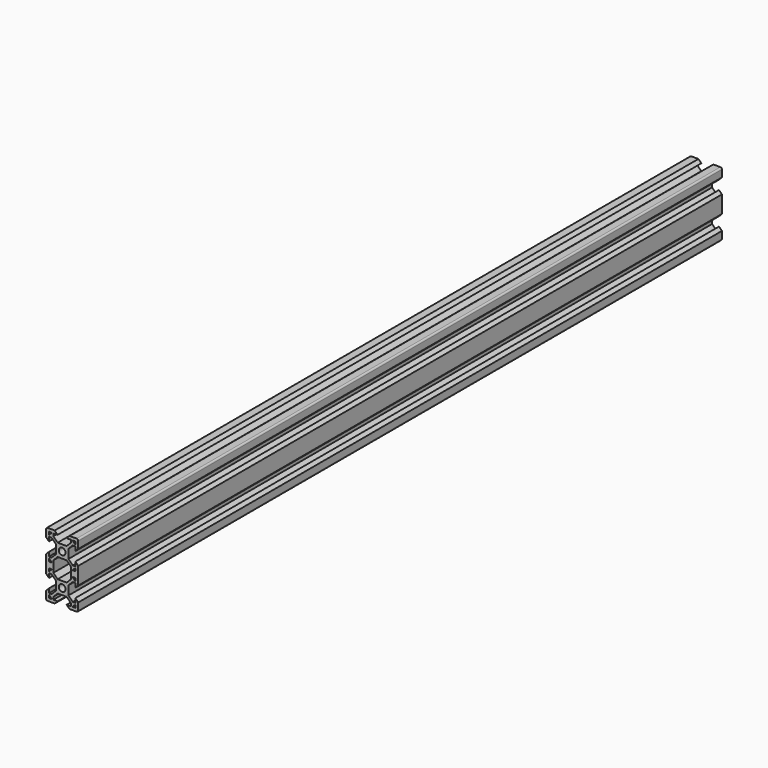
from build123d import *

# Parameters (mm, degrees)
F0_R     = 2.0955
F2_DEPTH = 500


with BuildPart() as f2:
    # F0 (on Front) → F2 (new body)
    with BuildSketch(Plane.XZ):
        with BuildLine():
            ThreePointArc((-9.9949, -9.0043), (-9.7047599774, -9.7047599774), (-9.0043, -9.9949))
            Line((-9.0043, -9.9949), (-4.6246692655, -9.9949))
            Line((-4.6246692655, -9.9949), (-2.8212692655, -8.1915))
            Line((-2.8212692655, -8.1915), (-5.4628692655, -8.1915))
            Line((-5.4628692655, -8.1915), (-5.4628692655, -6.5405))
            Line((-5.4628692655, -6.5405), (-2.8212692655, -3.8989))
            Line((-2.8212692655, -3.8989), (2.8212692655, -3.8989))
            Line((2.8212692655, -3.8989), (5.4628692655, -6.5405))
            Line((5.4628692655, -6.5405), (5.4628692655, -8.1915))
            Line((5.4628692655, -8.1915), (2.8212692655, -8.1915))
            Line((2.8212692655, -8.1915), (4.6246692655, -9.9949))
            Line((4.6246692655, -9.9949), (9.0043, -9.9949))
            ThreePointArc((9.0043, -9.9949), (9.7047599774, -9.7047599774), (9.9949, -9.0043))
            Line((9.9949, -9.0043), (9.9949, -4.6246692655))
            Line((9.9949, -4.6246692655), (8.1915, -2.8212692655))
            Line((8.1915, -2.8212692655), (8.1915, -5.4628692655))
            Line((8.1915, -5.4628692655), (6.5405, -5.4628692655))
            Line((6.5405, -5.4628692655), (3.8989, -2.8212692655))
            Line((3.8989, -2.8212692655), (3.8989, 2.8212692655))
            Line((3.8989, 2.8212692655), (6.5405, 5.4628692655))
            Line((6.5405, 5.4628692655), (8.1915, 5.4628692655))
            Line((8.1915, 5.4628692655), (8.1915, 2.8212692655))
            Line((8.1915, 2.8212692655), (9.9949, 4.6246692655))
            Line((9.9949, 4.6246692655), (9.9949, 9.0043))
            Line((9.9949, 9.0043), (9.9949, 10.9855))
            Line((9.9949, 10.9855), (9.9949, 15.3651307345))
            Line((9.9949, 15.3651307345), (8.1915, 17.1685307345))
            Line((8.1915, 17.1685307345), (8.1915, 14.5269307345))
            Line((8.1915, 14.5269307345), (6.5405, 14.5269307345))
            Line((6.5405, 14.5269307345), (3.8989, 17.1685307345))
            Line((3.8989, 17.1685307345), (3.8989, 22.8110692655))
            Line((3.8989, 22.8110692655), (6.5405, 25.4526692655))
            Line((6.5405, 25.4526692655), (8.1915, 25.4526692655))
            Line((8.1915, 25.4526692655), (8.1915, 22.8110692655))
            Line((8.1915, 22.8110692655), (9.9949, 24.6144692655))
            Line((9.9949, 24.6144692655), (9.9949, 28.9941))
            ThreePointArc((9.9949, 28.9941), (9.7047599774, 29.6945599774), (9.0043, 29.9847))
            Line((9.0043, 29.9847), (4.6246692655, 29.9847))
            Line((4.6246692655, 29.9847), (2.8212692655, 28.1813))
            Line((2.8212692655, 28.1813), (5.4628692655, 28.1813))
            Line((5.4628692655, 28.1813), (5.4628692655, 26.5303))
            Line((5.4628692655, 26.5303), (2.8212692655, 23.8887))
            Line((2.8212692655, 23.8887), (-2.8212692655, 23.8887))
            Line((-2.8212692655, 23.8887), (-5.4628692655, 26.5303))
            Line((-5.4628692655, 26.5303), (-5.4628692655, 28.1813))
            Line((-5.4628692655, 28.1813), (-2.8212692655, 28.1813))
            Line((-2.8212692655, 28.1813), (-4.6246692655, 29.9847))
            Line((-4.6246692655, 29.9847), (-9.0043, 29.9847))
            ThreePointArc((-9.0043, 29.9847), (-9.7047599774, 29.6945599774), (-9.9949, 28.9941))
            Line((-9.9949, 28.9941), (-9.9949, 24.6144692655))
            Line((-9.9949, 24.6144692655), (-8.1915, 22.8110692655))
            Line((-8.1915, 22.8110692655), (-8.1915, 25.4526692655))
            Line((-8.1915, 25.4526692655), (-6.5405, 25.4526692655))
            Line((-6.5405, 25.4526692655), (-3.8989, 22.8110692655))
            Line((-3.8989, 22.8110692655), (-3.8989, 17.1685307345))
            Line((-3.8989, 17.1685307345), (-6.5405, 14.5269307345))
            Line((-6.5405, 14.5269307345), (-8.1915, 14.5269307345))
            Line((-8.1915, 14.5269307345), (-8.1915, 17.1685307345))
            Line((-8.1915, 17.1685307345), (-9.9949, 15.3651307345))
            Line((-9.9949, 15.3651307345), (-9.9949, 10.9855))
            Line((-9.9949, 10.9855), (-9.9949, 9.0043))
            Line((-9.9949, 9.0043), (-9.9949, 4.6246692655))
            Line((-9.9949, 4.6246692655), (-8.1915, 2.8212692655))
            Line((-8.1915, 2.8212692655), (-8.1915, 5.4628692655))
            Line((-8.1915, 5.4628692655), (-6.5405, 5.4628692655))
            Line((-6.5405, 5.4628692655), (-3.8989, 2.8212692655))
            Line((-3.8989, 2.8212692655), (-3.8989, -2.8212692655))
            Line((-3.8989, -2.8212692655), (-6.5405, -5.4628692655))
            Line((-6.5405, -5.4628692655), (-8.1915, -5.4628692655))
            Line((-8.1915, -5.4628692655), (-8.1915, -2.8212692655))
            Line((-8.1915, -2.8212692655), (-9.9949, -4.6246692655))
            Line((-9.9949, -4.6246692655), (-9.9949, -9.0043))
        make_face()
        with BuildLine():
            ThreePointArc((-8.0391, -8.1915), (-8.1468630735, -8.1468630735), (-8.1915, -8.0391))
            Line((-8.1915, -8.0391), (-8.1915, -6.6929))
            ThreePointArc((-8.1915, -6.6929), (-8.1468630735, -6.5851369265), (-8.0391, -6.5405))
            Line((-8.0391, -6.5405), (-7.9883, -6.5405))
            Line((-7.9883, -6.5405), (-6.5405, -7.9883))
            Line((-6.5405, -7.9883), (-6.5405, -8.0391))
            ThreePointArc((-6.5405, -8.0391), (-6.5851369265, -8.1468630735), (-6.6929, -8.1915))
            Line((-6.6929, -8.1915), (-8.0391, -8.1915))
        make_face(mode=Mode.SUBTRACT)
        with BuildLine():
            Line((-7.9883, 6.5405), (-8.0391, 6.5405))
            ThreePointArc((-8.0391, 6.5405), (-8.1468630735, 6.5851369265), (-8.1915, 6.6929))
            Line((-8.1915, 6.6929), (-8.1915, 8.0391))
            ThreePointArc((-8.1915, 8.0391), (-8.1468630735, 8.1468630735), (-8.0391, 8.1915))
            Line((-8.0391, 8.1915), (-6.6929, 8.1915))
            ThreePointArc((-6.6929, 8.1915), (-6.5851369265, 8.1468630735), (-6.5405, 8.0391))
            Line((-6.5405, 8.0391), (-6.5405, 7.9883))
            Line((-6.5405, 7.9883), (-7.9883, 6.5405))
        make_face(mode=Mode.SUBTRACT)
        with BuildLine():
            Line((8.1915, -6.6929), (8.1915, -8.0391))
            ThreePointArc((8.1915, -8.0391), (8.1468630735, -8.1468630735), (8.0391, -8.1915))
            Line((8.0391, -8.1915), (6.6929, -8.1915))
            ThreePointArc((6.6929, -8.1915), (6.5851369265, -8.1468630735), (6.5405, -8.0391))
            Line((6.5405, -8.0391), (6.5405, -7.9883))
            Line((6.5405, -7.9883), (7.9883, -6.5405))
            Line((7.9883, -6.5405), (8.0391, -6.5405))
            ThreePointArc((8.0391, -6.5405), (8.1468630735, -6.5851369265), (8.1915, -6.6929))
        make_face(mode=Mode.SUBTRACT)
        Circle(F0_R, mode=Mode.SUBTRACT)
        with BuildLine():
            ThreePointArc((8.1915, 6.6929), (8.1468630735, 6.5851369265), (8.0391, 6.5405))
            Line((8.0391, 6.5405), (7.9883, 6.5405))
            Line((7.9883, 6.5405), (6.5405, 7.9883))
            Line((6.5405, 7.9883), (6.5405, 8.0391))
            ThreePointArc((6.5405, 8.0391), (6.5851369265, 8.1468630735), (6.6929, 8.1915))
            Line((6.6929, 8.1915), (8.0391, 8.1915))
            ThreePointArc((8.0391, 8.1915), (8.1468630735, 8.1468630735), (8.1915, 8.0391))
            Line((8.1915, 8.0391), (8.1915, 6.6929))
        make_face(mode=Mode.SUBTRACT)
        with BuildLine():
            ThreePointArc((-8.1915, 13.2969), (-8.1468630735, 13.4046630735), (-8.0391, 13.4493))
            Line((-8.0391, 13.4493), (-7.9883, 13.4493))
            Line((-7.9883, 13.4493), (-6.5405, 12.0015))
            Line((-6.5405, 12.0015), (-6.5405, 11.9507))
            ThreePointArc((-6.5405, 11.9507), (-6.5851369265, 11.8429369265), (-6.6929, 11.7983))
            Line((-6.6929, 11.7983), (-8.0391, 11.7983))
            ThreePointArc((-8.0391, 11.7983), (-8.1468630735, 11.8429369265), (-8.1915, 11.9507))
            Line((-8.1915, 11.9507), (-8.1915, 13.2969))
        make_face(mode=Mode.SUBTRACT)
        with BuildLine():
            ThreePointArc((-6.6929, 28.1813), (-6.5851369265, 28.1366630735), (-6.5405, 28.0289))
            Line((-6.5405, 28.0289), (-6.5405, 27.9781))
            Line((-6.5405, 27.9781), (-7.9883, 26.5303))
            Line((-7.9883, 26.5303), (-8.0391, 26.5303))
            ThreePointArc((-8.0391, 26.5303), (-8.1468630735, 26.5749369265), (-8.1915, 26.6827))
            Line((-8.1915, 26.6827), (-8.1915, 28.0289))
            ThreePointArc((-8.1915, 28.0289), (-8.1468630735, 28.1366630735), (-8.0391, 28.1813))
            Line((-8.0391, 28.1813), (-6.6929, 28.1813))
        make_face(mode=Mode.SUBTRACT)
        Polygon((5.4628692655, 6.5405), (2.8212692655, 3.8989), (-2.8212692655, 3.8989), (-5.4628692655, 6.5405), (-5.4628692655, 13.4493), (-2.8212692655, 16.0909), (2.8212692655, 16.0909), (5.4628692655, 13.4493), align=None, mode=Mode.SUBTRACT)
        with Locations((0, 19.9898)):
            Circle(F0_R, mode=Mode.SUBTRACT)
        with BuildLine():
            Line((8.0391, 11.7983), (6.6929, 11.7983))
            ThreePointArc((6.6929, 11.7983), (6.5851369265, 11.8429369265), (6.5405, 11.9507))
            Line((6.5405, 11.9507), (6.5405, 12.0015))
            Line((6.5405, 12.0015), (7.9883, 13.4493))
            Line((7.9883, 13.4493), (8.0391, 13.4493))
            ThreePointArc((8.0391, 13.4493), (8.1468630735, 13.4046630735), (8.1915, 13.2969))
            Line((8.1915, 13.2969), (8.1915, 11.9507))
            ThreePointArc((8.1915, 11.9507), (8.1468630735, 11.8429369265), (8.0391, 11.7983))
        make_face(mode=Mode.SUBTRACT)
        with BuildLine():
            ThreePointArc((6.5405, 28.0289), (6.5851369265, 28.1366630735), (6.6929, 28.1813))
            Line((6.6929, 28.1813), (8.0391, 28.1813))
            ThreePointArc((8.0391, 28.1813), (8.1468630735, 28.1366630735), (8.1915, 28.0289))
            Line((8.1915, 28.0289), (8.1915, 26.6827))
            ThreePointArc((8.1915, 26.6827), (8.1468630735, 26.5749369265), (8.0391, 26.5303))
            Line((8.0391, 26.5303), (7.9883, 26.5303))
            Line((7.9883, 26.5303), (6.5405, 27.9781))
            Line((6.5405, 27.9781), (6.5405, 28.0289))
        make_face(mode=Mode.SUBTRACT)
    extrude(amount=F2_DEPTH)


solid = f2.part
